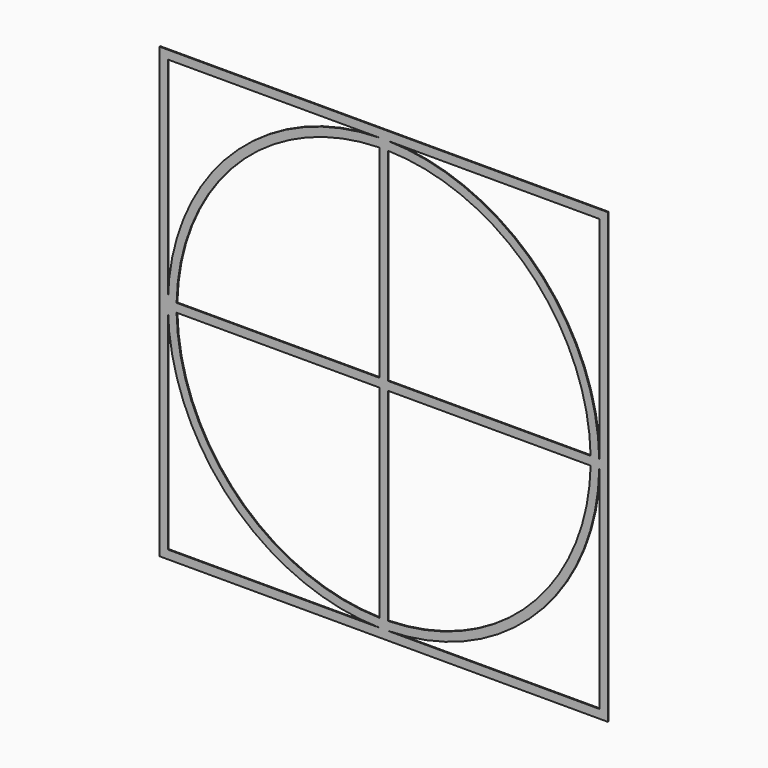
from build123d import *

# Parameters (mm, degrees)
F1_DEPTH = 0.3


with BuildPart() as f1:
    # F0 (on Front) → F1 (new body)
    with BuildSketch(Plane.XZ):
        Polygon((66.04, 0), (66.04, 66.04), (0, 66.04), (-66.04, 66.04), (-66.04, 0), (-66.04, -66.04), (0, -66.04), (66.04, -66.04), align=None)
        with BuildLine():
            Line((-1.27, -63.487299), (-1.27, -63.5))
            Line((-1.27, -63.5), (-63.5, -63.5))
            Line((-63.5, -63.5), (-63.5, -1.27))
            Line((-63.5, -1.27), (-63.487299, -1.27))
            ThreePointArc((-63.487299, -1.27), (-44.901281, -44.901281), (-1.27, -63.487299))
        make_face(mode=Mode.SUBTRACT)
        with BuildLine():
            Line((-60.946769, -1.27), (-1.27, -1.27))
            Line((-1.27, -1.27), (-1.27, -60.946769))
            ThreePointArc((-1.27, -60.946769), (-43.105229, -43.105229), (-60.946769, -1.27))
        make_face(mode=Mode.SUBTRACT)
        with BuildLine():
            Line((63.5, -1.27), (63.5, -63.5))
            Line((63.5, -63.5), (1.27, -63.5))
            Line((1.27, -63.5), (1.27, -63.487299))
            ThreePointArc((1.27, -63.487299), (44.901281, -44.901281), (63.487299, -1.27))
            Line((63.487299, -1.27), (63.5, -1.27))
        make_face(mode=Mode.SUBTRACT)
        with BuildLine():
            Line((1.27, -60.946769), (1.27, -1.27))
            Line((1.27, -1.27), (60.946769, -1.27))
            ThreePointArc((60.946769, -1.27), (43.105229, -43.105229), (1.27, -60.946769))
        make_face(mode=Mode.SUBTRACT)
        with BuildLine():
            Line((-1.27, 60.946769), (-1.27, 1.27))
            Line((-1.27, 1.27), (-60.946769, 1.27))
            ThreePointArc((-60.946769, 1.27), (-43.105229, 43.105229), (-1.27, 60.946769))
        make_face(mode=Mode.SUBTRACT)
        with BuildLine():
            Line((-63.5, 63.5), (-1.27, 63.5))
            Line((-1.27, 63.5), (-1.27, 63.487299))
            ThreePointArc((-1.27, 63.487299), (-44.901281, 44.901281), (-63.487299, 1.27))
            Line((-63.487299, 1.27), (-63.5, 1.27))
            Line((-63.5, 1.27), (-63.5, 63.5))
        make_face(mode=Mode.SUBTRACT)
        with BuildLine():
            ThreePointArc((1.27, 60.946769), (43.105229, 43.105229), (60.946769, 1.27))
            Line((60.946769, 1.27), (1.27, 1.27))
            Line((1.27, 1.27), (1.27, 60.946769))
        make_face(mode=Mode.SUBTRACT)
        with BuildLine():
            Line((1.27, 63.5), (63.5, 63.5))
            Line((63.5, 63.5), (63.5, 1.27))
            Line((63.5, 1.27), (63.487299, 1.27))
            ThreePointArc((63.487299, 1.27), (44.901281, 44.901281), (1.27, 63.487299))
            Line((1.27, 63.487299), (1.27, 63.5))
        make_face(mode=Mode.SUBTRACT)
    extrude(amount=F1_DEPTH)


solid = f1.part
